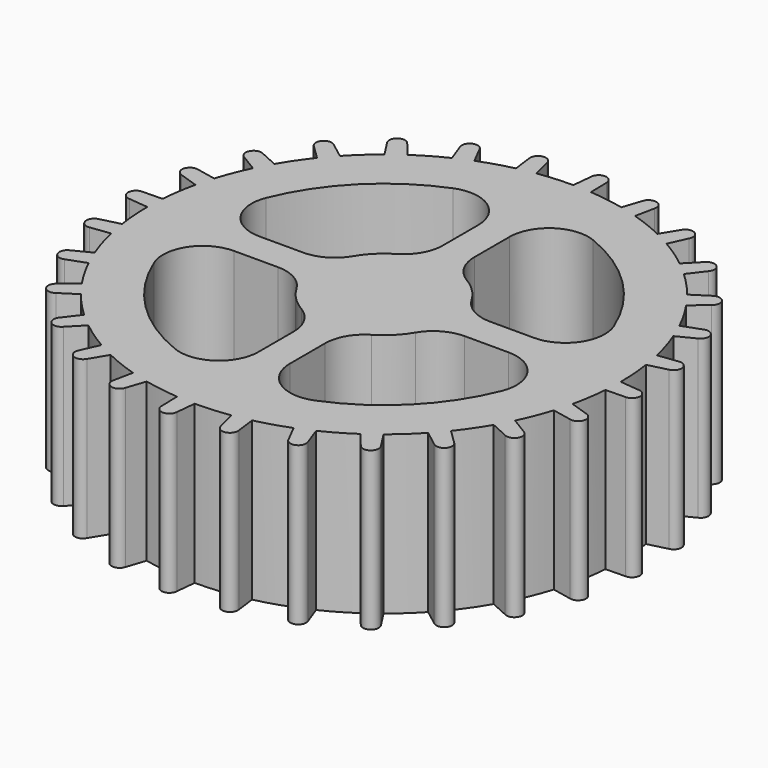
from build123d import *

# Parameters (mm, degrees)
F1_DEPTH = 10.16
F3_DEPTH = 25.4
F4_R     = 2.54


with BuildPart() as f1:
    # F0 (on Top) → F1 (new body)
    with BuildSketch(Plane.XY):
        with BuildLine():
            ThreePointArc((15.195006915, -1.170198638), (15.2287475747, -0.5855316452), (15.24, 0))
            ThreePointArc((15.24, 0), (15.1985511502, 1.1232287988), (15.0744300611, 2.2403478152))
            ThreePointArc((15.0744300611, 2.2403478152), (14.9772241267, 2.8178639889), (14.8579013817, 3.3912190335))
            ThreePointArc((14.8579013817, 3.3912190335), (14.5675498197, 4.4770629044), (14.1979583386, 5.5385538741))
            ThreePointArc((14.1979583386, 5.5385538741), (13.9746801215, 6.0799601563), (13.7307655468, 6.6123881842))
            ThreePointArc((13.7307655468, 6.6123881842), (13.2060707125, 7.6063983815), (12.6095416994, 8.5590337147))
            ThreePointArc((12.6095416994, 8.5590337147), (12.2713873019, 9.0371817337), (11.9151117928, 9.5019845803))
            ThreePointArc((11.9151117928, 9.5019845803), (11.1823840759, 10.3543172821), (10.3888299866, 11.1503278655))
            ThreePointArc((10.3888299866, 11.1503278655), (9.9527558821, 11.541241283), (9.5019845803, 11.9151117928))
            ThreePointArc((9.5019845803, 11.9151117928), (8.5979660083, 12.5830274783), (7.6471789583, 13.1824980174))
            ThreePointArc((7.6471789583, 13.1824980174), (7.1350517233, 13.4665748023), (6.6123881842, 13.7307655468))
            ThreePointArc((6.6123881842, 13.7307655468), (5.582410023, 14.1807721347), (4.5220664452, 14.5536426734))
            ThreePointArc((4.5220664452, 14.5536426734), (3.9595662777, 14.7166380295), (3.3912190335, 14.8579013817))
            ThreePointArc((3.3912190335, 14.8579013817), (2.286928689, 15.0674336624), (1.170198638, 15.195006915))
            Line((1.170198638, 15.195006915), (0, 15.24))
            ThreePointArc((0, 15.24), (-1.1232287988, 15.1985511502), (-2.2403478152, 15.0744300611))
            ThreePointArc((-2.2403478152, 15.0744300611), (-2.8178639889, 14.9772241267), (-3.3912190335, 14.8579013817))
            ThreePointArc((-3.3912190335, 14.8579013817), (-4.4770629044, 14.5675498197), (-5.5385538741, 14.1979583386))
            ThreePointArc((-5.5385538741, 14.1979583386), (-6.0799601563, 13.9746801215), (-6.6123881842, 13.7307655468))
            ThreePointArc((-6.6123881842, 13.7307655468), (-7.6063983815, 13.2060707125), (-8.5590337147, 12.6095416994))
            ThreePointArc((-8.5590337147, 12.6095416994), (-9.0371817337, 12.2713873019), (-9.5019845803, 11.9151117928))
            ThreePointArc((-9.5019845803, 11.9151117928), (-10.3543172821, 11.1823840759), (-11.1503278655, 10.3888299866))
            ThreePointArc((-11.1503278655, 10.3888299866), (-11.541241283, 9.9527558821), (-11.9151117928, 9.5019845803))
            ThreePointArc((-11.9151117928, 9.5019845803), (-12.5830274783, 8.5979660083), (-13.1824980174, 7.6471789583))
            ThreePointArc((-13.1824980174, 7.6471789583), (-13.4665748023, 7.1350517233), (-13.7307655468, 6.6123881842))
            ThreePointArc((-13.7307655468, 6.6123881842), (-14.1807721347, 5.582410023), (-14.5536426734, 4.5220664452))
            ThreePointArc((-14.5536426734, 4.5220664452), (-14.7166380295, 3.9595662777), (-14.8579013817, 3.3912190335))
            ThreePointArc((-14.8579013817, 3.3912190335), (-15.0674336624, 2.286928689), (-15.195006915, 1.170198638))
            ThreePointArc((-15.195006915, 1.170198638), (-15.2287475747, 0.5855316452), (-15.24, 0))
            ThreePointArc((-15.24, 0), (-15.1985511502, -1.1232287988), (-15.0744300611, -2.2403478152))
            ThreePointArc((-15.0744300611, -2.2403478152), (-14.9772241267, -2.8178639889), (-14.8579013817, -3.3912190335))
            ThreePointArc((-14.8579013817, -3.3912190335), (-14.5675498197, -4.4770629044), (-14.1979583386, -5.5385538741))
            ThreePointArc((-14.1979583386, -5.5385538741), (-13.9746801215, -6.0799601563), (-13.7307655468, -6.6123881842))
            ThreePointArc((-13.7307655468, -6.6123881842), (-13.2060707125, -7.6063983815), (-12.6095416994, -8.5590337147))
            ThreePointArc((-12.6095416994, -8.5590337147), (-12.2713873019, -9.0371817337), (-11.9151117928, -9.5019845803))
            ThreePointArc((-11.9151117928, -9.5019845803), (-11.1823840759, -10.3543172821), (-10.3888299866, -11.1503278655))
            ThreePointArc((-10.3888299866, -11.1503278655), (-9.9527558821, -11.541241283), (-9.5019845803, -11.9151117928))
            ThreePointArc((-9.5019845803, -11.9151117928), (-8.5979660083, -12.5830274783), (-7.6471789583, -13.1824980174))
            ThreePointArc((-7.6471789583, -13.1824980174), (-7.1350517233, -13.4665748023), (-6.6123881842, -13.7307655468))
            ThreePointArc((-6.6123881842, -13.7307655468), (-5.582410023, -14.1807721347), (-4.5220664452, -14.5536426734))
            ThreePointArc((-4.5220664452, -14.5536426734), (-3.9595662777, -14.7166380295), (-3.3912190335, -14.8579013817))
            ThreePointArc((-3.3912190335, -14.8579013817), (-2.286928689, -15.0674336624), (-1.170198638, -15.195006915))
            ThreePointArc((-1.170198638, -15.195006915), (-0.5855316452, -15.2287475747), (0, -15.24))
            ThreePointArc((0, -15.24), (1.1232287988, -15.1985511502), (2.2403478152, -15.0744300611))
            ThreePointArc((2.2403478152, -15.0744300611), (2.8178639889, -14.9772241267), (3.3912190335, -14.8579013817))
            ThreePointArc((3.3912190335, -14.8579013817), (4.4770629044, -14.5675498197), (5.5385538741, -14.1979583386))
            ThreePointArc((5.5385538741, -14.1979583386), (6.0799601563, -13.9746801215), (6.6123881842, -13.7307655468))
            ThreePointArc((6.6123881842, -13.7307655468), (7.6063983815, -13.2060707125), (8.5590337147, -12.6095416994))
            ThreePointArc((8.5590337147, -12.6095416994), (9.0371817337, -12.2713873019), (9.5019845803, -11.9151117928))
            ThreePointArc((9.5019845803, -11.9151117928), (10.3543172821, -11.1823840759), (11.1503278655, -10.3888299866))
            ThreePointArc((11.1503278655, -10.3888299866), (11.541241283, -9.9527558821), (11.9151117928, -9.5019845803))
            ThreePointArc((11.9151117928, -9.5019845803), (12.5830274783, -8.5979660083), (13.1824980174, -7.6471789583))
            ThreePointArc((13.1824980174, -7.6471789583), (13.4665748023, -7.1350517233), (13.7307655468, -6.6123881842))
            ThreePointArc((13.7307655468, -6.6123881842), (14.1807721347, -5.582410023), (14.5536426734, -4.5220664452))
            ThreePointArc((14.5536426734, -4.5220664452), (14.7166380295, -3.9595662777), (14.8579013817, -3.3912190335))
            ThreePointArc((14.8579013817, -3.3912190335), (15.0674336624, -2.286928689), (15.195006915, -1.170198638))
        make_face()
        with BuildLine():
            Line((16.5037164199, -0.1261776924), (15.24, 0))
            ThreePointArc((15.24, 0), (15.2287475747, -0.5855316452), (15.195006915, -1.170198638))
            Line((15.195006915, -1.170198638), (16.4646809769, -1.1414275307))
            ThreePointArc((16.4646809769, -1.1414275307), (16.9918236176, -0.6533203331), (16.5037164199, -0.1261776924))
        make_face()
        with BuildLine():
            ThreePointArc((14.8579013817, 3.3912190335), (14.9772241267, 2.8178639889), (15.0744300611, 2.2403478152))
            Line((15.0744300611, 2.2403478152), (16.3058685697, 2.5509266288))
            ThreePointArc((16.3058685697, 2.5509266288), (16.7111805743, 3.1440962327), (16.1180109705, 3.5494082373))
            Line((16.1180109705, 3.5494082373), (14.8579013817, 3.3912190335))
        make_face()
        with BuildLine():
            Line((16.0618566145, -3.7954365457), (14.8579013817, -3.3912190335))
            ThreePointArc((14.8579013817, -3.3912190335), (14.7166380295, -3.9595662777), (14.5536426734, -4.5220664452))
            Line((14.5536426734, -4.5220664452), (15.7978855294, -4.7765457477))
            ThreePointArc((15.7978855294, -4.7765457477), (16.4204256729, -4.4179766893), (16.0618566145, -3.7954365457))
        make_face()
        with BuildLine():
            ThreePointArc((13.7307655468, 6.6123881842), (13.9746801215, 6.0799601563), (14.1979583386, 5.5385538741))
            Line((14.1979583386, 5.5385538741), (15.3294118251, 6.1153666755))
            ThreePointArc((15.3294118251, 6.1153666755), (15.5925691573, 6.7838546847), (14.924081148, 7.0470120169))
            Line((14.924081148, 7.0470120169), (13.7307655468, 6.6123881842))
        make_face()
        with BuildLine():
            Line((14.81458825, -7.2743763623), (13.7307655468, -6.6123881842))
            ThreePointArc((13.7307655468, -6.6123881842), (13.4665748023, -7.1350517233), (13.1824980174, -7.6471789583))
            Line((13.1824980174, -7.6471789583), (14.3389181352, -8.1721480158))
            ThreePointArc((14.3389181352, -8.1721480158), (15.0256390193, -7.9610972465), (14.81458825, -7.2743763623))
        make_face()
        with BuildLine():
            ThreePointArc((11.9151117928, 9.5019845803), (12.2713873019, 9.0371817337), (12.6095416994, 8.5590337147))
            Line((12.6095416994, 8.5590337147), (13.5842743615, 9.3731567015))
            ThreePointArc((13.5842743615, 9.3731567015), (13.6920812138, 10.083442336), (12.9817955793, 10.1912491883))
            Line((12.9817955793, 10.1912491883), (11.9151117928, 9.5019845803))
        make_face()
        with BuildLine():
            Line((12.8244545704, -10.3885485729), (11.9151117928, -9.5019845803))
            ThreePointArc((11.9151117928, -9.5019845803), (11.541241283, -9.9527558821), (11.1503278655, -10.3888299866))
            Line((11.1503278655, -10.3888299866), (12.1609375116, -11.1579646584))
            ThreePointArc((12.1609375116, -11.1579646584), (12.8774040837, -11.1050151451), (12.8244545704, -10.3885485729))
        make_face()
        with BuildLine():
            ThreePointArc((9.5019845803, 11.9151117928), (9.9527558821, 11.541241283), (10.3888299866, 11.1503278655))
            Line((10.3888299866, 11.1503278655), (11.1579646584, 12.1609375116))
            ThreePointArc((11.1579646584, 12.1609375116), (11.1050151451, 12.8774040837), (10.3885485729, 12.8244545704))
            Line((10.3885485729, 12.8244545704), (9.5019845803, 11.9151117928))
        make_face()
        with BuildLine():
            Line((10.1912491883, -12.9817955793), (9.5019845803, -11.9151117928))
            ThreePointArc((9.5019845803, -11.9151117928), (9.0371817337, -12.2713873019), (8.5590337147, -12.6095416994))
            Line((8.5590337147, -12.6095416994), (9.3731567015, -13.5842743615))
            ThreePointArc((9.3731567015, -13.5842743615), (10.083442336, -13.6920812138), (10.1912491883, -12.9817955793))
        make_face()
        with BuildLine():
            ThreePointArc((6.6123881842, 13.7307655468), (7.1350517233, 13.4665748023), (7.6471789583, 13.1824980174))
            Line((7.6471789583, 13.1824980174), (8.1721480158, 14.3389181352))
            ThreePointArc((8.1721480158, 14.3389181352), (7.9610972465, 15.0256390193), (7.2743763623, 14.81458825))
            Line((7.2743763623, 14.81458825), (6.6123881842, 13.7307655468))
        make_face()
        with BuildLine():
            Line((7.0470120169, -14.924081148), (6.6123881842, -13.7307655468))
            ThreePointArc((6.6123881842, -13.7307655468), (6.0799601563, -13.9746801215), (5.5385538741, -14.1979583386))
            Line((5.5385538741, -14.1979583386), (6.1153666755, -15.3294118251))
            ThreePointArc((6.1153666755, -15.3294118251), (6.7838546847, -15.5925691573), (7.0470120169, -14.924081148))
        make_face()
        with BuildLine():
            ThreePointArc((3.3912190335, 14.8579013817), (3.9595662777, 14.7166380295), (4.5220664452, 14.5536426734))
            Line((4.5220664452, 14.5536426734), (4.7765457477, 15.7978855294))
            ThreePointArc((4.7765457477, 15.7978855294), (4.4179766893, 16.4204256729), (3.7954365457, 16.0618566145))
            Line((3.7954365457, 16.0618566145), (3.3912190335, 14.8579013817))
        make_face()
        with BuildLine():
            Line((3.5494082373, -16.1180109705), (3.3912190335, -14.8579013817))
            ThreePointArc((3.3912190335, -14.8579013817), (2.8178639889, -14.9772241267), (2.2403478152, -15.0744300611))
            Line((2.2403478152, -15.0744300611), (2.5509266288, -16.3058685697))
            ThreePointArc((2.5509266288, -16.3058685697), (3.1440962327, -16.7111805743), (3.5494082373, -16.1180109705))
        make_face()
        with BuildLine():
            Line((0, 15.24), (1.170198638, 15.195006915))
            ThreePointArc((1.170198638, 15.195006915), (0.5855316452, 15.2287475747), (0, 15.24))
        make_face()
        with BuildLine():
            ThreePointArc((0, 15.24), (0.5855316452, 15.2287475747), (1.170198638, 15.195006915))
            Line((1.170198638, 15.195006915), (1.1414275307, 16.4646809769))
            ThreePointArc((1.1414275307, 16.4646809769), (0.6533203331, 16.9918236176), (0.1261776924, 16.5037164199))
            Line((0.1261776924, 16.5037164199), (0, 15.24))
        make_face()
        with BuildLine():
            Line((-0.1261776924, -16.5037164199), (0, -15.24))
            ThreePointArc((0, -15.24), (-0.5855316452, -15.2287475747), (-1.170198638, -15.195006915))
            Line((-1.170198638, -15.195006915), (-1.1414275307, -16.4646809769))
            ThreePointArc((-1.1414275307, -16.4646809769), (-0.6533203331, -16.9918236176), (-0.1261776924, -16.5037164199))
        make_face()
        with BuildLine():
            ThreePointArc((-3.3912190335, 14.8579013817), (-2.8178639889, 14.9772241267), (-2.2403478152, 15.0744300611))
            Line((-2.2403478152, 15.0744300611), (-2.5509266288, 16.3058685697))
            ThreePointArc((-2.5509266288, 16.3058685697), (-3.1440962327, 16.7111805743), (-3.5494082373, 16.1180109705))
            Line((-3.5494082373, 16.1180109705), (-3.3912190335, 14.8579013817))
        make_face()
        with BuildLine():
            Line((-3.7954365457, -16.0618566145), (-3.3912190335, -14.8579013817))
            ThreePointArc((-3.3912190335, -14.8579013817), (-3.9595662777, -14.7166380295), (-4.5220664452, -14.5536426734))
            Line((-4.5220664452, -14.5536426734), (-4.7765457477, -15.7978855294))
            ThreePointArc((-4.7765457477, -15.7978855294), (-4.4179766893, -16.4204256729), (-3.7954365457, -16.0618566145))
        make_face()
        with BuildLine():
            ThreePointArc((-6.6123881842, 13.7307655468), (-6.0799601563, 13.9746801215), (-5.5385538741, 14.1979583386))
            Line((-5.5385538741, 14.1979583386), (-6.1153666755, 15.3294118251))
            ThreePointArc((-6.1153666755, 15.3294118251), (-6.7838546847, 15.5925691573), (-7.0470120169, 14.924081148))
            Line((-7.0470120169, 14.924081148), (-6.6123881842, 13.7307655468))
        make_face()
        with BuildLine():
            Line((-7.2743763623, -14.81458825), (-6.6123881842, -13.7307655468))
            ThreePointArc((-6.6123881842, -13.7307655468), (-7.1350517233, -13.4665748023), (-7.6471789583, -13.1824980174))
            Line((-7.6471789583, -13.1824980174), (-8.1721480158, -14.3389181352))
            ThreePointArc((-8.1721480158, -14.3389181352), (-7.9610972465, -15.0256390193), (-7.2743763623, -14.81458825))
        make_face()
        with BuildLine():
            ThreePointArc((-9.5019845803, 11.9151117928), (-9.0371817337, 12.2713873019), (-8.5590337147, 12.6095416994))
            Line((-8.5590337147, 12.6095416994), (-9.3731567015, 13.5842743615))
            ThreePointArc((-9.3731567015, 13.5842743615), (-10.083442336, 13.6920812138), (-10.1912491883, 12.9817955793))
            Line((-10.1912491883, 12.9817955793), (-9.5019845803, 11.9151117928))
        make_face()
        with BuildLine():
            Line((-10.3885485729, -12.8244545704), (-9.5019845803, -11.9151117928))
            ThreePointArc((-9.5019845803, -11.9151117928), (-9.9527558821, -11.541241283), (-10.3888299866, -11.1503278655))
            Line((-10.3888299866, -11.1503278655), (-11.1579646584, -12.1609375116))
            ThreePointArc((-11.1579646584, -12.1609375116), (-11.1050151451, -12.8774040837), (-10.3885485729, -12.8244545704))
        make_face()
        with BuildLine():
            ThreePointArc((-11.9151117928, 9.5019845803), (-11.541241283, 9.9527558821), (-11.1503278655, 10.3888299866))
            Line((-11.1503278655, 10.3888299866), (-12.1609375116, 11.1579646584))
            ThreePointArc((-12.1609375116, 11.1579646584), (-12.8774040837, 11.1050151451), (-12.8244545704, 10.3885485729))
            Line((-12.8244545704, 10.3885485729), (-11.9151117928, 9.5019845803))
        make_face()
        with BuildLine():
            Line((-12.9817955793, -10.1912491883), (-11.9151117928, -9.5019845803))
            ThreePointArc((-11.9151117928, -9.5019845803), (-12.2713873019, -9.0371817337), (-12.6095416994, -8.5590337147))
            Line((-12.6095416994, -8.5590337147), (-13.5842743615, -9.3731567015))
            ThreePointArc((-13.5842743615, -9.3731567015), (-13.6920812138, -10.083442336), (-12.9817955793, -10.1912491883))
        make_face()
        with BuildLine():
            ThreePointArc((-13.7307655468, 6.6123881842), (-13.4665748023, 7.1350517233), (-13.1824980174, 7.6471789583))
            Line((-13.1824980174, 7.6471789583), (-14.3389181352, 8.1721480158))
            ThreePointArc((-14.3389181352, 8.1721480158), (-15.0256390193, 7.9610972465), (-14.81458825, 7.2743763623))
            Line((-14.81458825, 7.2743763623), (-13.7307655468, 6.6123881842))
        make_face()
        with BuildLine():
            Line((-14.924081148, -7.0470120169), (-13.7307655468, -6.6123881842))
            ThreePointArc((-13.7307655468, -6.6123881842), (-13.9746801215, -6.0799601563), (-14.1979583386, -5.5385538741))
            Line((-14.1979583386, -5.5385538741), (-15.3294118251, -6.1153666755))
            ThreePointArc((-15.3294118251, -6.1153666755), (-15.5925691573, -6.7838546847), (-14.924081148, -7.0470120169))
        make_face()
        with BuildLine():
            ThreePointArc((-14.8579013817, 3.3912190335), (-14.7166380295, 3.9595662777), (-14.5536426734, 4.5220664452))
            Line((-14.5536426734, 4.5220664452), (-15.7978855294, 4.7765457477))
            ThreePointArc((-15.7978855294, 4.7765457477), (-16.4204256729, 4.4179766893), (-16.0618566145, 3.7954365457))
            Line((-16.0618566145, 3.7954365457), (-14.8579013817, 3.3912190335))
        make_face()
        with BuildLine():
            Line((-16.1180109705, -3.5494082373), (-14.8579013817, -3.3912190335))
            ThreePointArc((-14.8579013817, -3.3912190335), (-14.9772241267, -2.8178639889), (-15.0744300611, -2.2403478152))
            Line((-15.0744300611, -2.2403478152), (-16.3058685697, -2.5509266288))
            ThreePointArc((-16.3058685697, -2.5509266288), (-16.7111805743, -3.1440962327), (-16.1180109705, -3.5494082373))
        make_face()
        with BuildLine():
            ThreePointArc((-15.24, 0), (-15.2287475747, 0.5855316452), (-15.195006915, 1.170198638))
            Line((-15.195006915, 1.170198638), (-16.4646809769, 1.1414275307))
            ThreePointArc((-16.4646809769, 1.1414275307), (-16.9918236176, 0.6533203331), (-16.5037164199, 0.1261776924))
            Line((-16.5037164199, 0.1261776924), (-15.24, 0))
        make_face()
    extrude(amount=F1_DEPTH)

    # F2 (on face) → F3 (cut)
    with BuildSketch(Plane.XY.offset(10.16)):
        with BuildLine():
            Line((-1.016, 4.3273281595), (-1.016, 12.0221449417))
            ThreePointArc((-1.016, 12.0221449417), (-8.531243315, 8.531243315), (-12.0221449417, 1.016))
            Line((-12.0221449417, 1.016), (-4.3273281595, 1.016))
            ThreePointArc((-4.3273281595, 1.016), (-3.1430896424, 3.1430896424), (-1.016, 4.3273281595))
        make_face()
        with BuildLine():
            Line((1.016, 12.0221449417), (1.016, 4.3273281595))
            ThreePointArc((1.016, 4.3273281595), (3.1430896424, 3.1430896424), (4.3273281595, 1.016))
            Line((4.3273281595, 1.016), (12.0221449417, 1.016))
            ThreePointArc((12.0221449417, 1.016), (8.531243315, 8.531243315), (1.016, 12.0221449417))
        make_face()
        with BuildLine():
            ThreePointArc((-1.016, -4.3273281595), (-3.1430896424, -3.1430896424), (-4.3273281595, -1.016))
            Line((-4.3273281595, -1.016), (-12.0221449417, -1.016))
            ThreePointArc((-12.0221449417, -1.016), (-8.531243315, -8.531243315), (-1.016, -12.0221449417))
            Line((-1.016, -12.0221449417), (-1.016, -4.3273281595))
        make_face()
        with BuildLine():
            ThreePointArc((4.3273281595, -1.016), (3.1430896424, -3.1430896424), (1.016, -4.3273281595))
            Line((1.016, -4.3273281595), (1.016, -12.0221449417))
            ThreePointArc((1.016, -12.0221449417), (8.531243315, -8.531243315), (12.0221449417, -1.016))
            Line((12.0221449417, -1.016), (4.3273281595, -1.016))
        make_face()
    extrude(amount=-F3_DEPTH, mode=Mode.SUBTRACT)

    # F4
    f4_edges = [f1.edges().sort_by_distance(p)[0] for p in [
        (1.016, 4.327328, 5.08),
        (4.327328, 1.016, 5.08),
        (1.016, 12.022145, 5.08),
        (12.022145, 1.016, 5.08),
        (1.016, -4.327328, 5.08),
        (4.327328, -1.016, 5.08),
        (12.022145, -1.016, 5.08),
        (1.016, -12.022145, 5.08),
        (-4.327328, -1.016, 5.08),
        (-1.016, -4.327328, 5.08),
        (-12.022145, -1.016, 5.08),
        (-1.016, 12.022145, 5.08),
        (-1.016, 4.327328, 5.08),
        (-4.327328, 1.016, 5.08),
        (-12.022145, 1.016, 5.08),
        (-1.016, -12.022145, 5.08),
    ]]
    fillet(f4_edges, radius=F4_R)


solid = f1.part
